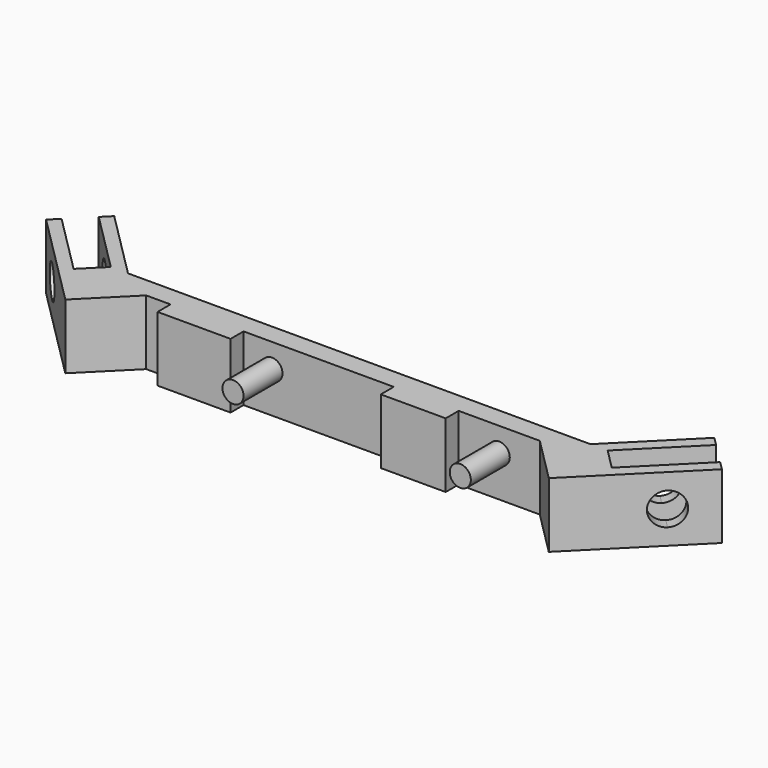
from build123d import *

# Parameters (mm, degrees)
F1_DEPTH = 8
F3_DEPTH = 10
F5_DEPTH = 9.9
F6_W     = 9
F6_H     = 8
F6_W_2   = 8
F7_DEPTH = 2
F6_R     = 1.3
F8_DEPTH = 6


with BuildPart() as f1:
    # F0 (on Top) → F1 (new body)
    with BuildSketch(Plane.XY):
        Polygon((28.5, -30), (-28.5, -30), (-36.985281, -21.514719), (-38.045942, -22.575379), (-30.62132, -30), (-33.166905, -32.545584), (-40.591526, -25.120963), (-41.652186, -26.181623), (-29.795584, -38.038225), (-24.257359, -32.5), (24.257359, -32.5), (29.795584, -38.038225), (41.652186, -26.181623), (40.591526, -25.120963), (33.166905, -32.545584), (30.62132, -30), (38.045942, -22.575379), (36.985281, -21.514719), align=None)
    extrude(amount=F1_DEPTH)

    # F2 (on face) → F3 (cut)
    with BuildSketch(Plane(origin=(33.916905, -33.916905, 0), x_dir=(0.707107, 0.707107, 0), z_dir=(0.707107, -0.707107, 0))):
        with BuildLine():
            ThreePointArc((7.671573, 4), (7.085786, 5.414214), (5.671573, 6))
            ThreePointArc((5.671573, 6), (3.671573, 4), (5.671573, 2))
            ThreePointArc((5.671573, 2), (7.085786, 2.585786), (7.671573, 4))
        make_face()
    extrude(amount=-F3_DEPTH, mode=Mode.SUBTRACT)

    # F4 (on face) → F5 (cut)
    with BuildSketch(Plane(origin=(-33.916905, -33.916905, 0), x_dir=(0.707107, -0.707107, 0), z_dir=(-0.707107, -0.707107, 0))):
        with BuildLine():
            ThreePointArc((-3.671573, 4), (-4.257359, 5.414214), (-5.671573, 6))
            ThreePointArc((-5.671573, 6), (-7.671573, 4), (-5.671573, 2))
            ThreePointArc((-5.671573, 2), (-4.257359, 2.585786), (-3.671573, 4))
        make_face()
    extrude(amount=-F5_DEPTH, mode=Mode.SUBTRACT)

    # F6 (on face) → F7 (join)
    with BuildSketch(Plane.XZ.offset(32.5)):
        with Locations((-16.757359, 4)):
            Rectangle(F6_W, F6_H)
        with Locations((10.257359, 4)):
            Rectangle(F6_W_2, F6_H)
    extrude(amount=F7_DEPTH)

    # F6 (on face) → F8 (join)
    with BuildSketch(Plane.XZ.offset(32.5)):
        with Locations((-8.757359, 5)):
            Circle(F6_R)
        with Locations((19.257359, 5)):
            Circle(F6_R)
    extrude(amount=F8_DEPTH)


solid = f1.part
